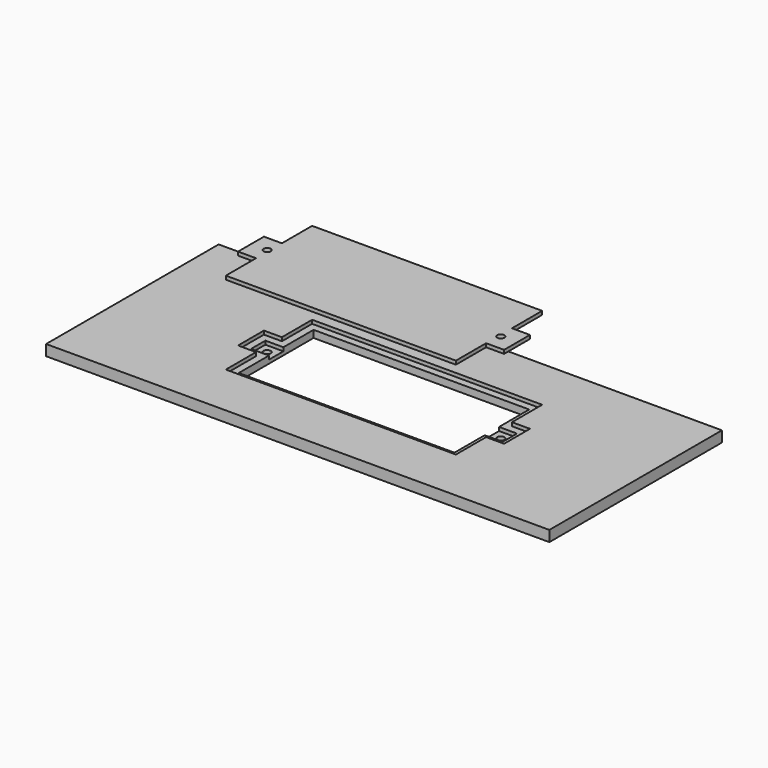
from build123d import *

# Parameters (mm, degrees)
F0_W      = 140
F0_H      = 60
F1_DEPTH  = 3
F4_DEPTH  = 2
F5_DEPTH  = 1
F6_W      = 60
F6_H      = 26
F7_DEPTH  = 25
F11_DEPTH = 1
F12_DEPTH = 1
F13_R     = 1
F14_DEPTH = 43


with BuildPart() as f1:
    # F0 (on Top) → F1 (new body)
    with BuildSketch(Plane.XY):
        Rectangle(F0_W, F0_H)
    extrude(amount=F1_DEPTH)

    # F2 (on face) → F4 (cut)
    with BuildSketch(Plane.XY.offset(3)):
        Polygon((-30, -2.5), (-30, -13), (30, -13), (30, -2.5), (35, -2.5), (35, 2.5), (30, 2.5), (30, 13), (-30, 13), (-30, 2.5), (-35, 2.5), (-35, -2.5), align=None)
    extrude(amount=-F4_DEPTH, mode=Mode.SUBTRACT)

    # F3 (on face) → F5 (cut)
    with BuildSketch(Plane.XY.offset(3)):
        Polygon((32, 15), (-32, 15), (-32, 4.5), (-37, 4.5), (-37, -4.5), (-32, -4.5), (-32, -15), (32, -15), (32, -4.5), (37, -4.5), (37, 4.5), (32, 4.5), align=None)
    extrude(amount=-F5_DEPTH, mode=Mode.SUBTRACT)

    # F6 (on face) → F7 (cut)
    with BuildSketch(Plane.XY.offset(3)):
        Rectangle(F6_W, F6_H)
    extrude(amount=-F7_DEPTH, mode=Mode.SUBTRACT)


with BuildPart() as f11:
    # F10 (on offset) → F11 (new body)
    with BuildSketch(Plane.XY.offset(25)):
        Polygon((-30, -2.5), (-30, -13), (30, -13), (30, -2.5), (35, -2.5), (35, 2.5), (30, 2.5), (30, 13), (-30, 13), (-30, 2.5), (-35, 2.5), (-35, -2.5), align=None)
    extrude(amount=-F11_DEPTH)

    # F9 (on offset) → F12 (join)
    with BuildSketch(Plane.XY.offset(25)):
        Polygon((32, 15), (-32, 15), (-32, 4.5), (-37, 4.5), (-37, -4.5), (-32, -4.5), (-32, -15), (32, -15), (32, -4.5), (37, -4.5), (37, 4.5), (32, 4.5), align=None)
    extrude(amount=F12_DEPTH)


with BuildPart() as f14_tool:
    # F13 (on face) → F14 (new body)
    with BuildSketch(Plane(origin=(0, 0, 0), x_dir=(1, 0, 0), z_dir=(0, 0, -1))):
        with Locations((-32.500006, 0)):
            Circle(F13_R)
        with Locations((32.500017, 0)):
            Circle(F13_R)
    extrude(amount=-F14_DEPTH)


with BuildPart() as f1_1:
    add(f1.part)

    # F14: cut by f14_tool
    add(f14_tool.part, mode=Mode.SUBTRACT)


with BuildPart() as f11_1:
    add(f11.part)

    # F14: cut by f14_tool
    add(f14_tool.part, mode=Mode.SUBTRACT)


solid = Compound([f1_1.part, f11_1.part])
